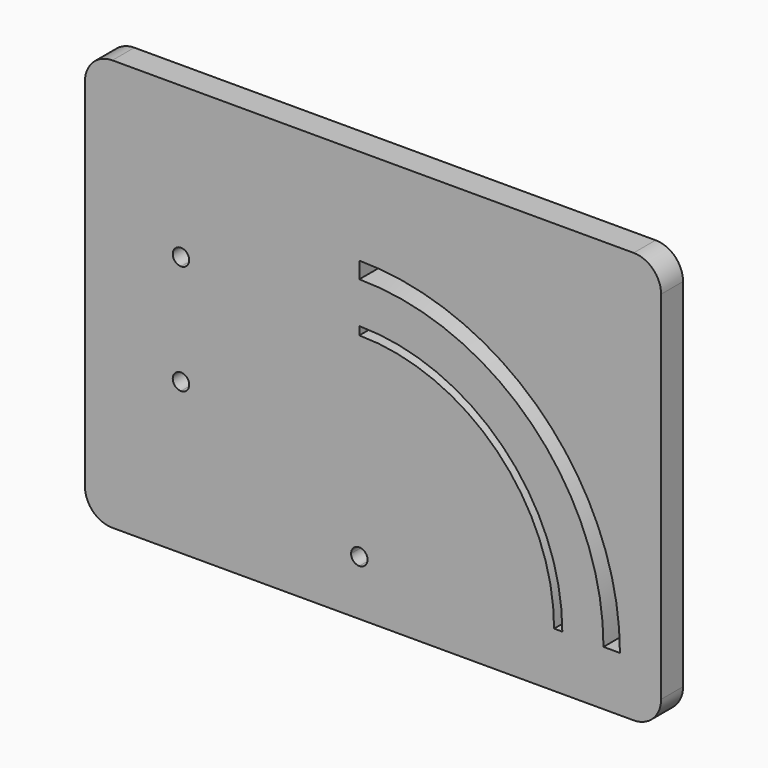
from build123d import *

# Parameters (mm, degrees)
F0_W     = 210
F0_H     = 150
F1_DEPTH = 10
F2_R     = 10
F3_R     = 10
F4_R     = 10
F6_DEPTH = 10


with BuildPart() as f1:
    # F0 (on Front) → F1 (new body)
    with BuildSketch(Plane.XZ):
        with Locations((-26.2686859254, 50.2357134596)):
            Rectangle(F0_W, F0_H)
    extrude(amount=F1_DEPTH)

    # F2
    f2_edges = [f1.edges().sort_by_distance(p)[0] for p in [
        (-131.268686, -5, 125.235713),
    ]]
    fillet(f2_edges, radius=F2_R)

    # F3
    f3_edges = [f1.edges().sort_by_distance(p)[0] for p in [
        (-131.268686, -5, -24.764287),
    ]]
    fillet(f3_edges, radius=F3_R)

    # F4
    f4_edges = [f1.edges().sort_by_distance(p)[0] for p in [
        (78.731314, -5, -24.764287),
        (78.731314, -5, 125.235713),
    ]]
    fillet(f4_edges, radius=F4_R)

    # F5 (on face) → F6 (cut)
    with BuildSketch(Plane.XZ.offset(10)):
        with BuildLine():
            Line((-34.2686859254, -4.7642865404), (-31.2686859254, -4.7642865404))
            Line((-31.2686859254, -4.7642865404), (-31.2686859254, -1.7642865404))
            ThreePointArc((-31.2686859254, -1.7642865404), (-33.3900062689, -2.6429661969), (-34.2686859254, -4.7642865404))
        make_face()
        with BuildLine():
            Line((-31.2686859254, -7.7642865404), (-31.2686859254, -4.7642865404))
            Line((-31.2686859254, -4.7642865404), (-34.2686859254, -4.7642865404))
            ThreePointArc((-34.2686859254, -4.7642865404), (-33.3900062689, -6.885606884), (-31.2686859254, -7.7642865404))
        make_face()
        with BuildLine():
            Line((-31.2686859254, -4.7642865404), (-28.2686859254, -4.7642865404))
            ThreePointArc((-28.2686859254, -4.7642865404), (-29.1473655818, -2.6429661969), (-31.2686859254, -1.7642865404))
            Line((-31.2686859254, -1.7642865404), (-31.2686859254, -4.7642865404))
        make_face()
        with BuildLine():
            ThreePointArc((-31.2686859254, -7.7642865404), (-29.1473655818, -6.885606884), (-28.2686859254, -4.7642865404))
            Line((-28.2686859254, -4.7642865404), (-31.2686859254, -4.7642865404))
            Line((-31.2686859254, -4.7642865404), (-31.2686859254, -7.7642865404))
        make_face()
        with BuildLine():
            ThreePointArc((-31.2686859254, 66.2357134596), (18.9358955389, 45.4402949238), (39.7313140746, -4.7642865404))
            Line((39.7313140746, -4.7642865404), (42.7313140746, -4.7642865404))
            ThreePointArc((42.7313140746, -4.7642865404), (21.0572158824, 47.5616152674), (-31.2686859254, 69.2357134596))
            Line((-31.2686859254, 69.2357134596), (-31.2686859254, 66.2357134596))
        make_face()
        with BuildLine():
            ThreePointArc((-31.2686859254, 84.2357134596), (31.6638176002, 58.1682169852), (57.7313140746, -4.7642865404))
            Line((57.7313140746, -4.7642865404), (63.7313140746, -4.7642865404))
            ThreePointArc((63.7313140746, -4.7642865404), (35.9064582873, 62.4108576723), (-31.2686859254, 90.2357134596))
            Line((-31.2686859254, 90.2357134596), (-31.2686859254, 84.2357134596))
        make_face()
        with BuildLine():
            Line((-96.2686859254, 67.2357134596), (-96.2686859254, 73.2357134596))
            ThreePointArc((-96.2686859254, 73.2357134596), (-99.2686859254, 70.2357134596), (-96.2686859254, 67.2357134596))
        make_face()
        with BuildLine():
            ThreePointArc((-93.2686859254, 70.2357134596), (-94.1473655818, 72.3570338031), (-96.2686859254, 73.2357134596))
            Line((-96.2686859254, 73.2357134596), (-96.2686859254, 67.2357134596))
            ThreePointArc((-96.2686859254, 67.2357134596), (-94.1473655818, 68.114393116), (-93.2686859254, 70.2357134596))
        make_face()
        with BuildLine():
            ThreePointArc((-96.2686859254, 33.2357134596), (-99.2686859254, 30.2357134596), (-96.2686859254, 27.2357134596))
            Line((-96.2686859254, 27.2357134596), (-96.2686859254, 33.2357134596))
        make_face()
        with BuildLine():
            Line((-96.2686859254, 33.2357134596), (-96.2686859254, 27.2357134596))
            ThreePointArc((-96.2686859254, 27.2357134596), (-94.1473655818, 28.114393116), (-93.2686859254, 30.2357134596))
            ThreePointArc((-93.2686859254, 30.2357134596), (-94.1473655818, 32.3570338031), (-96.2686859254, 33.2357134596))
        make_face()
    extrude(amount=-F6_DEPTH, mode=Mode.SUBTRACT)


solid = f1.part
